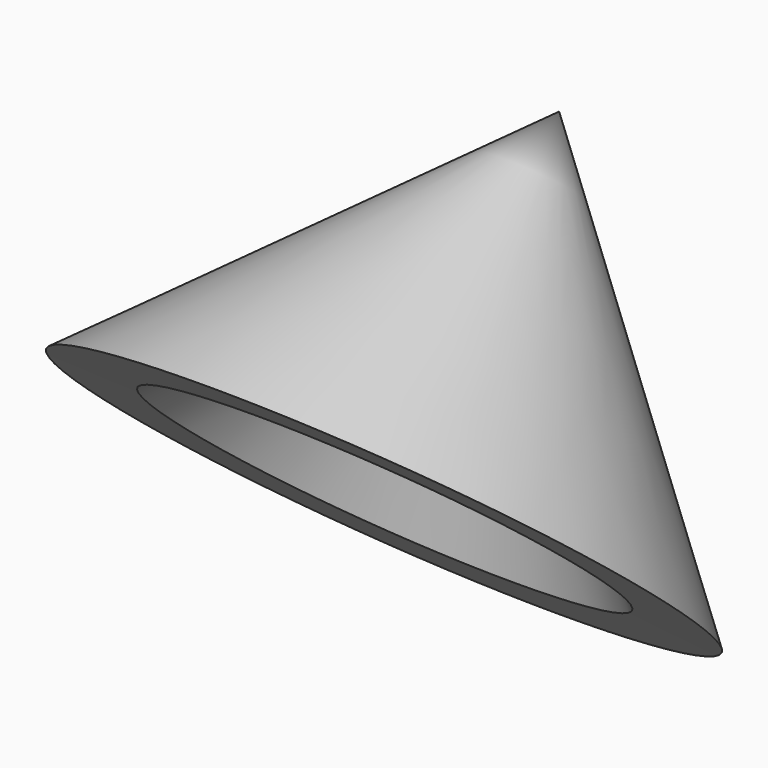
from build123d import *


with BuildPart() as f1:
    # F0 (on Right) → F1 (revolve)
    with BuildSketch(Plane.YZ):
        Polygon((27.0074866712, -17.9310999811), (27.0074866712, 37.2170545161), (19.8306702077, 28.9070568979), (19.8306702077, -11.5097388625), align=None)
    revolve(axis=Axis((0, 23.4190784395, 33.062055707), (0, 0.653619888, 0.7568229925)))


solid = f1.part
